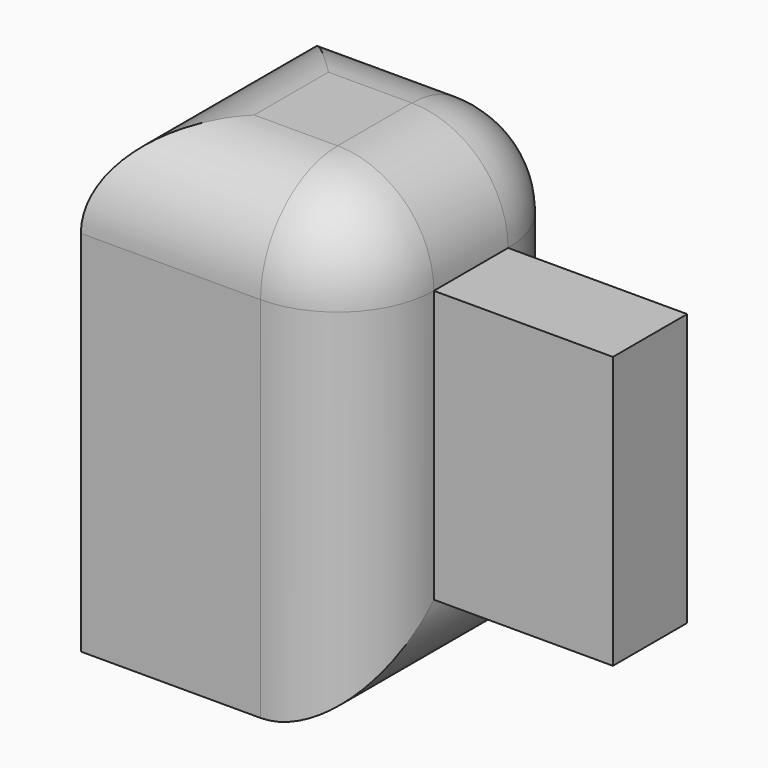
from build123d import *

# Parameters (mm, degrees)
F1_W      = 100.959658
F1_H      = 169.9415
F2_DEPTH  = 104.405696
F3_R      = 35.229378
F2_FACE_W = 33.94694
F2_FACE_H = 99.482744
F4_DEPTH  = 65.501096


with BuildPart() as f2:
    # F1 (on face) → F2 (new body)
    with BuildSketch(Plane.XZ):
        with Locations((1.969874, 20.931415)):
            Rectangle(F1_W, F1_H)
    extrude(amount=F2_DEPTH)

    # F3
    f3_edges = [f2.edges().sort_by_distance(p)[0] for p in [
        (52.449703, -52.202848, 105.902165),
        (-48.509955, -52.202848, 105.902165),
        (1.969874, 0, 105.902165),
        (1.969874, -104.405696, 105.902165),
        (52.449703, -52.202848, -64.039335),
        (52.449703, 0, 20.931415),
        (52.449703, -104.405696, 20.931415),
    ]]
    fillet(f3_edges, radius=F3_R)

    # F2_face (on face) → F4 (join)
    with BuildSketch(Plane(origin=(52.449703, -52.202848, 20.931415), x_dir=(0, 1, 0), z_dir=(1, 0, 0))):
        Rectangle(F2_FACE_W, F2_FACE_H)
    extrude(amount=F4_DEPTH)


solid = f2.part
